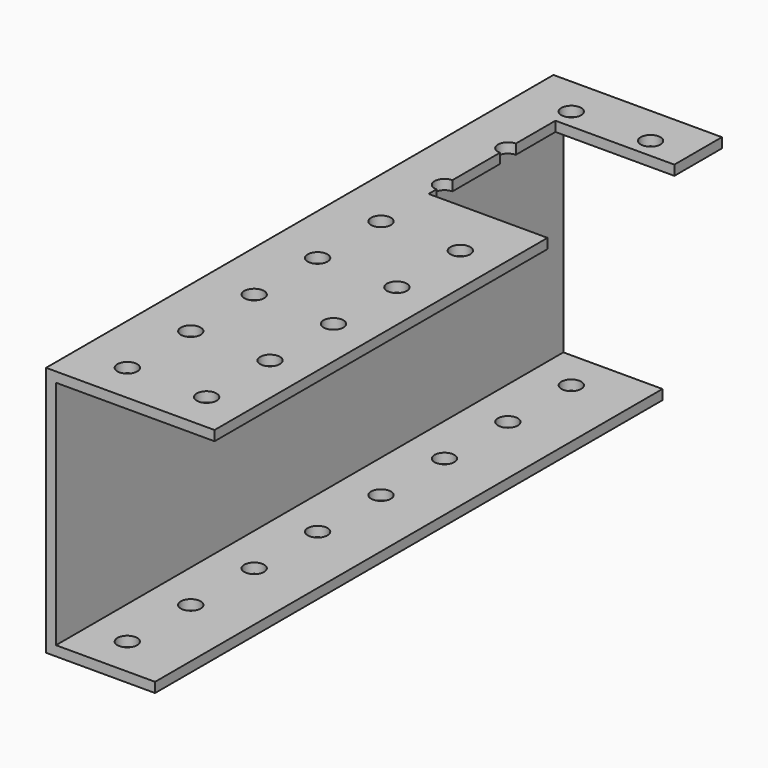
from build123d import *

# Parameters (mm, degrees)
F1_DEPTH = 203.2
F2_W     = 38.1
F2_H     = 50.8
F3_DEPTH = 25.4
F4_R     = 3.175
F5_DEPTH = 101.6


with BuildPart() as f1:
    # F0 (on Front) → F1 (new body)
    with BuildSketch(Plane.XZ):
        Polygon((53.975, 44.519556), (0, 44.519556), (0, -35.871444), (34.925, -35.871444), (34.925, -32.696444), (3.175, -32.696444), (3.175, 41.344556), (53.975, 41.344556), align=None)
    extrude(amount=F1_DEPTH)

    # F2 (on face) → F3 (cut)
    with BuildSketch(Plane.XY.offset(44.519556)):
        with Locations((34.925, -44.45)):
            Rectangle(F2_W, F2_H)
    extrude(amount=-F3_DEPTH, mode=Mode.SUBTRACT)

    # F4 (on face) → F5 (cut)
    with BuildSketch(Plane.XY.offset(44.519556)):
        with Locations((41.275, -190.5)):
            Circle(F4_R)
        with Locations((41.275, -165.1)):
            Circle(F4_R)
        with Locations((41.275, -139.7)):
            Circle(F4_R)
        with Locations((41.275, -114.3)):
            Circle(F4_R)
        with Locations((41.275, -88.9)):
            Circle(F4_R)
        with Locations((41.275, -63.5)):
            Circle(F4_R)
        with Locations((41.275, -38.1)):
            Circle(F4_R)
        with Locations((41.275, -12.7)):
            Circle(F4_R)
        with Locations((15.875, -190.5)):
            Circle(F4_R)
        with Locations((15.875, -165.1)):
            Circle(F4_R)
        with Locations((15.875, -139.7)):
            Circle(F4_R)
        with Locations((15.875, -114.3)):
            Circle(F4_R)
        with Locations((15.875, -88.9)):
            Circle(F4_R)
        with Locations((15.875, -63.5)):
            Circle(F4_R)
        with Locations((15.875, -38.1)):
            Circle(F4_R)
        with Locations((15.875, -12.7)):
            Circle(F4_R)
    extrude(amount=-F5_DEPTH, mode=Mode.SUBTRACT)


solid = f1.part
